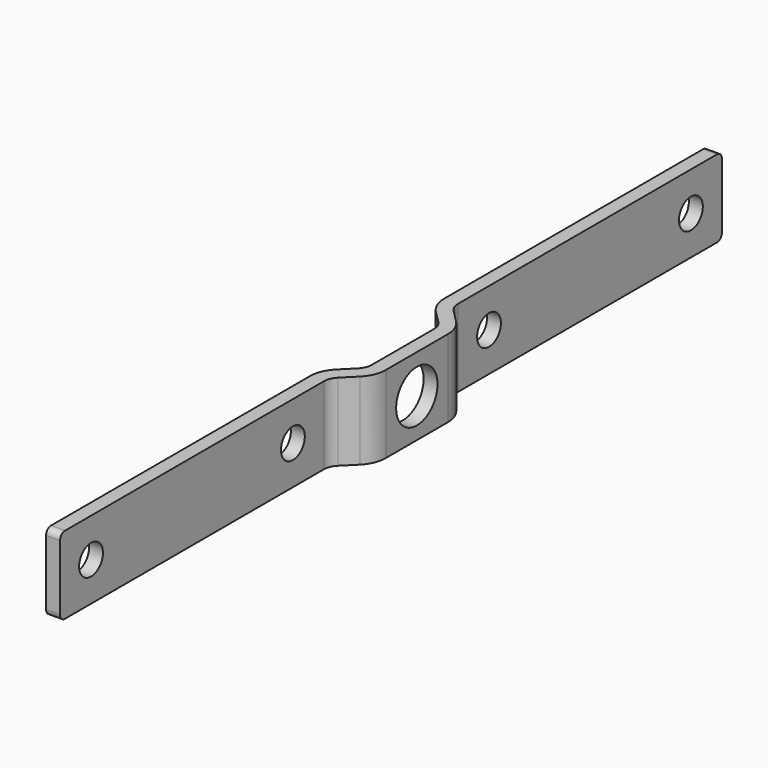
from build123d import *

# Parameters (mm, degrees)
F1_DEPTH = 9.525
F2_R     = 1.8288
F2_R_2   = 3.175
F3_DEPTH = 4.88442
F4_R     = 0.762


with BuildPart() as f1:
    # F0 (on Top) → F1 (new body)
    with BuildSketch(Plane.XY):
        with BuildLine():
            ThreePointArc((0.581024, 1.402716), (0.430021, 0.643572), (0, 0))
            Line((0, 0), (-1.512274, -1.512274))
            ThreePointArc((-1.512274, -1.512274), (-2.312851, -2.710422), (-2.593976, -4.123733))
            Line((-2.593976, -4.123733), (-2.593976, -44.634784))
            Line((-2.593976, -44.634784), (-0.884556, -44.634784))
            Line((-0.884556, -44.634784), (-0.884556, -4.123733))
            ThreePointArc((-0.884556, -4.123733), (-0.733553, -3.364588), (-0.303532, -2.721017))
            Line((-0.303532, -2.721017), (1.208743, -1.208742))
            ThreePointArc((1.208743, -1.208742), (2.009319, -0.010595), (2.290444, 1.402716))
            Line((2.290444, 1.402716), (2.290444, 10.927716))
            ThreePointArc((2.290444, 10.927716), (2.009319, 12.341027), (1.208743, 13.539175))
            Line((1.208743, 13.539175), (-0.303532, 15.051449))
            ThreePointArc((-0.303532, 15.051449), (-0.733553, 15.695021), (-0.884556, 16.454165))
            Line((-0.884556, 16.454165), (-0.884556, 56.965216))
            Line((-0.884556, 56.965216), (-2.593976, 56.965216))
            Line((-2.593976, 56.965216), (-2.593976, 16.454165))
            ThreePointArc((-2.593976, 16.454165), (-2.312851, 15.040854), (-1.512274, 13.842707))
            Line((-1.512274, 13.842707), (0, 12.330432))
            ThreePointArc((0, 12.330432), (0.430021, 11.686861), (0.581024, 10.927716))
            Line((0.581024, 10.927716), (0.581024, 1.402716))
        make_face()
    extrude(amount=F1_DEPTH)

    # F2 (on face) → F3 (cut, through all)
    with BuildSketch(Plane(origin=(-2.593976, 0, 0), x_dir=(0, -1, 0), z_dir=(-1, 0, 0))):
        with Locations((-52.202716, 4.7625)):
            Circle(F2_R)
        with Locations((-21.216665, 4.7625)):
            Circle(F2_R)
        with Locations((8.886233, 4.7625)):
            Circle(F2_R)
        with Locations((39.872284, 4.7625)):
            Circle(F2_R)
        with Locations((-6.165216, 4.7625)):
            Circle(F2_R_2)
    extrude(amount=-F3_DEPTH, mode=Mode.SUBTRACT)

    # F4
    f4_edges = [f1.edges().sort_by_distance(p)[0] for p in [
        (-1.739266, 56.965216, 9.525),
        (-1.739266, 56.965216, 0),
        (-1.739266, -44.634784, 9.525),
        (-1.739266, -44.634784, 0),
    ]]
    fillet(f4_edges, radius=F4_R)


solid = f1.part
